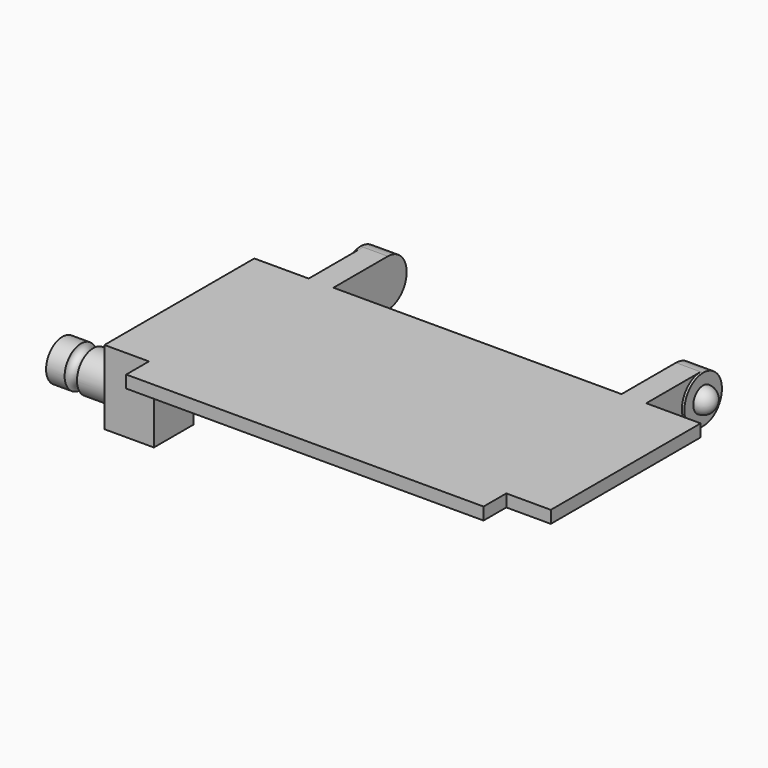
from build123d import *

# Parameters (mm, degrees)
PAD038_DEPTH             = 1
PAD039_DEPTH             = 2.2
POCKET022_DEPTH          = 0.2
PAD040_DEPTH             = 2.2
POCKET023_DEPTH          = 0.2
SKETCH063_W              = 4
SKETCH063_H              = 4
PAD041_DEPTH             = 5
SKETCH064_R              = 1.65
PAD042_DEPTH             = 5
SKETCH065_R              = 0.5
PAD084_DEPTH             = 2
PAD085_DEPTH             = 2
CLONE003_PLACEMENT_ANGLE = 180


with BuildPart() as part:
    # Sketch058 (on DatumPlane) → Pad038 (new body)
    with BuildSketch(Plane(origin=(0, 0, -0.6), x_dir=(1, 0, 0), z_dir=(0, 0, -1))):
        Polygon((45.85, -61.65), (45.85, -76.8), (49.45, -76.8), (49.45, -79.1), (78.35, -79.1), (78.35, -76.8), (81.95, -76.8), (81.95, -61.65), (77.55, -61.65), (77.55, -58.65), (77.75, -58.65), (77.75, -56.15), (75.55, -56.15), (75.55, -61.65), (52.25, -61.65), (52.25, -56.15), (50.05, -56.15), (50.05, -58.65), (50.25, -58.65), (50.25, -61.65), align=None)
    extrude(amount=PAD038_DEPTH)

    # Sketch059 (on Face17 of Pad038) → Pad039 (join)
    with BuildSketch(Plane(origin=(50.05, 0, -0.6), x_dir=(0, 1, 0), z_dir=(-1, 0, 0))):
        with BuildLine():
            ThreePointArc((57.82332, 1), (55.175321, 3.530951), (56.15, 0))
            Line((56.15, 1), (56.15, 0))
            Line((57.82332, 1), (56.15, 1))
        make_face()
    extrude(amount=-PAD039_DEPTH)

    # Sketch060 (on Face22 of Pad039) → Pocket022 (cut)
    with BuildSketch(Plane(origin=(50.05, 0, -0.6), x_dir=(0, 1, 0), z_dir=(-1, 0, 0))):
        with BuildLine():
            ThreePointArc((56.15, 0), (57.124679, 0.269049), (57.82332, 1))
            Line((57.82332, 1), (58.65, 1))
            Line((58.65, 1), (58.65, 0))
            Line((58.65, 0), (56.15, 0))
        make_face()
    extrude(amount=-POCKET022_DEPTH, mode=Mode.SUBTRACT)

    # Sketch061 (on Face14 of Pocket022) → Pad040 (join)
    with BuildSketch(Plane(origin=(77.75, 0, -0.6), x_dir=(0, -1, 0), z_dir=(1, 0, 0))):
        with BuildLine():
            ThreePointArc((-56.15, 0), (-55.175321, 3.530951), (-57.82332, 1))
            Line((-57.82332, 1), (-56.15, 1))
            Line((-56.15, 1), (-56.15, 0))
        make_face()
    extrude(amount=-PAD040_DEPTH)

    # Sketch062 (on Face20 of Pad040) → Pocket023 (cut)
    with BuildSketch(Plane(origin=(77.75, 0, -0.6), x_dir=(0, -1, 0), z_dir=(1, 0, 0))):
        with BuildLine():
            ThreePointArc((-57.82332, 1), (-57.124679, 0.269049), (-56.15, 0))
            Line((-58.65, 0), (-56.15, 0))
            Line((-58.65, 1), (-58.65, 0))
            Line((-57.82332, 1), (-58.65, 1))
        make_face()
    extrude(amount=-POCKET023_DEPTH, mode=Mode.SUBTRACT)

    # Sphere004 → Sphere004 (revolve)
    with BuildSketch(Plane(origin=(50.05, 56.15, -2.5), x_dir=(0, 1, 0), z_dir=(0, 0, -1))):
        with BuildLine():
            ThreePointArc((0, -1), (1, 0), (0, 1))
            Line((0, 1), (0, -1))
        make_face()
    revolve(axis=Axis((50.05, 56.15, -2.5), (1, 0, 0)))

    # Sphere005 → Sphere005 (revolve)
    with BuildSketch(Plane(origin=(77.75, 56.15, -2.5), x_dir=(0, 1, 0), z_dir=(0, 0, -1))):
        with BuildLine():
            ThreePointArc((0, -1), (1, 0), (0, 1))
            Line((0, 1), (0, -1))
        make_face()
    revolve(axis=Axis((77.75, 56.15, -2.5), (1, 0, 0)))

    # Sketch063 (on Face5 of Sphere005) → Pad041 (join)
    with BuildSketch(Plane(origin=(77.75, 56.15, -1.6), x_dir=(0, 1, 0), z_dir=(0, 0, -1))):
        with Locations((18.65, 2.2)):
            Rectangle(SKETCH063_W, SKETCH063_H)
    extrude(amount=PAD041_DEPTH)

    # Sketch064 (on Face25 of Pad041) → Pad042 (join)
    with BuildSketch(Plane(origin=(81.95, 56.15, -2.5), x_dir=(0, 1, 0), z_dir=(1, 0, 0))):
        with Locations((18.65, -1.599996)):
            Circle(SKETCH064_R)
    extrude(amount=PAD042_DEPTH)

    # Sketch065 (on DatumPlane) → Groove002 (revolve, cut)
    with BuildSketch(Plane(origin=(84.45, 74.8, -4.1), x_dir=(0, 1, 0), z_dir=(0, 0, -1))):
        with Locations((1.680544, 0.5)):
            Circle(SKETCH065_R)
    revolve(axis=Axis((84.45, 74.8, -4.1), (1, 0, 0)), mode=Mode.SUBTRACT)

    # Sketch107 (on Face17 of Groove002) → Pad084 (join)
    with BuildSketch(Plane(origin=(52.25, 56.15, -2.5), x_dir=(0, 1, 0), z_dir=(1, 0, 0))):
        Polygon((22.95, 0.900005), (0.231255, -1.885874), (1.67332, 0.9), align=None)
    extrude(amount=-PAD084_DEPTH)

    # Sketch108 (on Face14 of Pad084) → Pad085 (join)
    with BuildSketch(Plane(origin=(75.55, 56.15, -2.5), x_dir=(0, 1, 0), z_dir=(-1, 0, 0))):
        Polygon((1.67332, -0.9), (22.95, -0.900005), (0.231255, 1.885874), align=None)
    extrude(amount=-PAD085_DEPTH)


with BuildPart() as part_1:
    # Clone003 placement: moved
    add(part.part.moved(Location((91.8, 159.4, 0))).rotate(Axis((91.8, 159.4, 0), (0, 0, -1)), CLONE003_PLACEMENT_ANGLE))


with BuildPart() as part_2:
    # Body021 placement: moved
    add(part_1.part.moved(Location((36, 0, 0))))


solid = part_2.part
